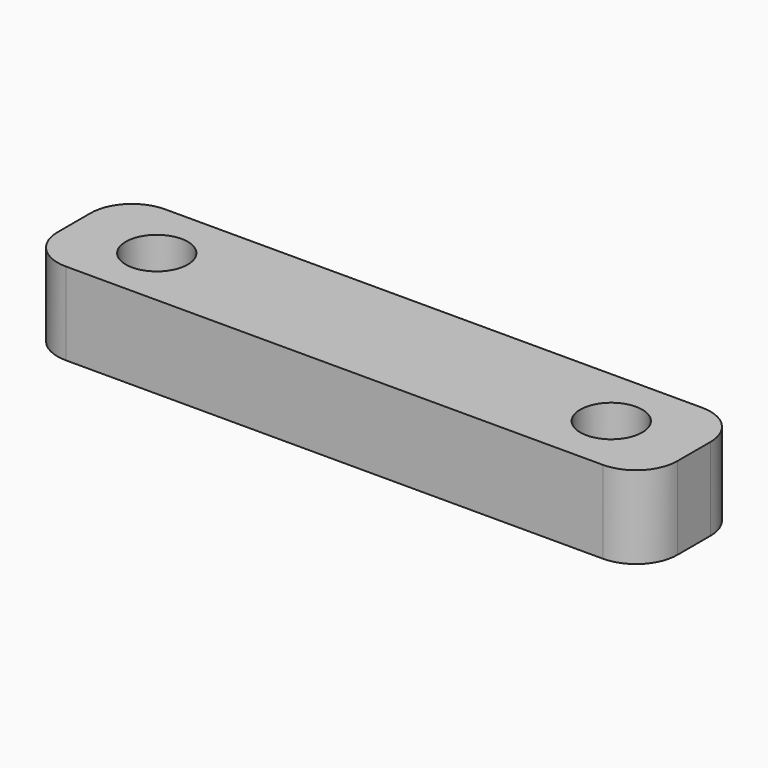
from build123d import *

# Parameters (mm, degrees)
F0_W     = 30
F0_H     = 6
F0_R     = 1.5
F1_DEPTH = 4
F2_R     = 2


with BuildPart() as f1:
    # F0 (on Top) → F1 (new body)
    with BuildSketch(Plane.XY):
        Rectangle(F0_W, F0_H)
        with Locations((-11, 0)):
            Circle(F0_R, mode=Mode.SUBTRACT)
        with Locations((11, 0)):
            Circle(F0_R, mode=Mode.SUBTRACT)
    extrude(amount=F1_DEPTH)

    # F2
    f2_edges = [f1.edges().sort_by_distance(p)[0] for p in [
        (-15, 3, 2),
        (15, 3, 2),
        (15, -3, 2),
        (-15, -3, 2),
    ]]
    fillet(f2_edges, radius=F2_R)


solid = f1.part
